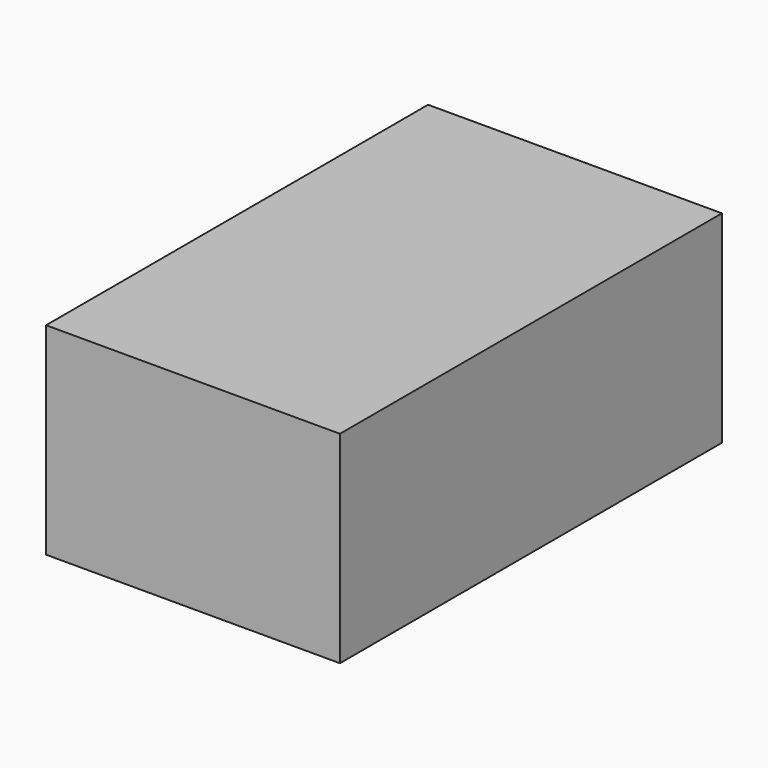
from build123d import *

# Parameters (mm, degrees)
F1_DEPTH = 11
F2_R     = 1
F3_DEPTH = 1
F4_DEPTH = 3.9


with BuildPart() as f1:
    # F0 (on Top) → F1 (new body)
    with BuildSketch(Plane.XY):
        Polygon((-7.970938, -12.932724), (8.029062, -12.932724), (8.029062, 13.067276), (4.129676, 13.067276), (0.029062, 13.067276), (-7.970938, 13.067276), align=None)
    extrude(amount=F1_DEPTH)

    # F2 (on Top) → F3 (cut)
    with BuildSketch(Plane.XY):
        with BuildLine():
            Line((-0.023847, 7.43662), (-0.023847, -8.600051))
            ThreePointArc((-0.023847, -8.600051), (3.476153, -12.100051), (6.976153, -8.600051))
            Line((6.976153, -8.600051), (6.976153, 15.099979))
            Line((6.976153, 15.099979), (-0.516003, 14.27335))
            Line((-0.516003, 14.27335), (-0.516003, 7.43662))
            Line((-0.516003, 7.43662), (-0.023847, 7.43662))
        make_face()
        with Locations((4.481404, 1.478317)):
            Circle(F2_R, mode=Mode.SUBTRACT)
        with Locations((4.481404, 1.478317)):
            Circle(F2_R)
    extrude(amount=F3_DEPTH, mode=Mode.SUBTRACT)

    # F2 (on Top) → F4 (cut)
    with BuildSketch(Plane.XY):
        with Locations((4.481404, 1.478317)):
            Circle(F2_R)
    extrude(amount=F4_DEPTH, mode=Mode.SUBTRACT)


solid = f1.part
